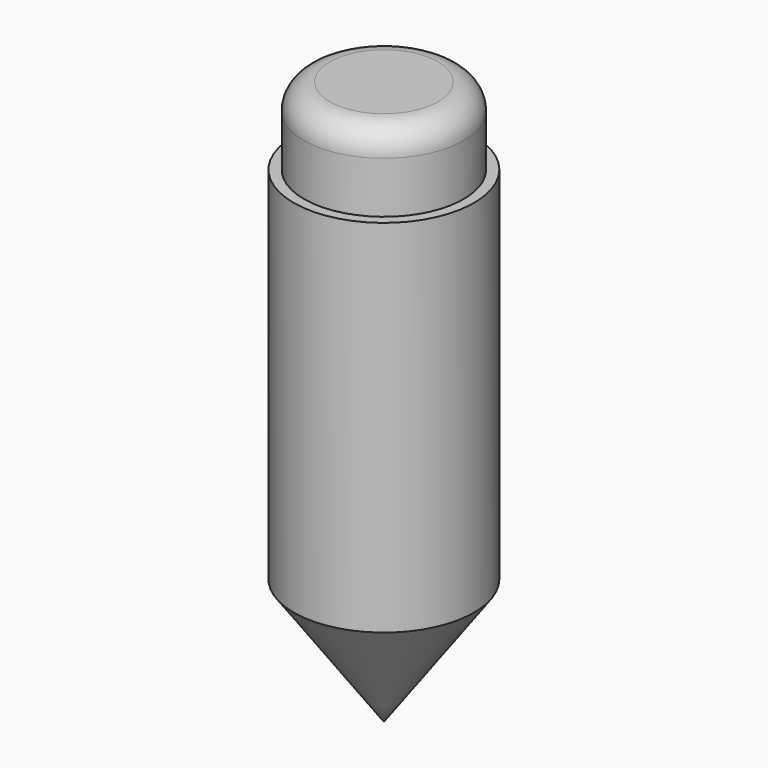
from build123d import *

# Parameters (mm, degrees)
F0_W = 19.685
F0_H = 19.05
F2_R = 6.35


with BuildPart() as f1:
    # F0 (on Front) → F1 (revolve)
    with BuildSketch(Plane.XZ):
        Polygon((3.1867721118, 33.2802927613), (3.1867721118, -55.6197072387), (25.4117721118, -55.6197072387), (25.4117721118, 33.2802927613), (5.7267721118, 33.2802927613), align=None)
        with Locations((15.5692721118, 42.8052927613)):
            Rectangle(F0_W, F0_H)
        Polygon((25.4117721118, -55.6197072387), (3.1867721118, -55.6197072387), (25.4117721118, -86.5657792834), align=None)
    revolve(axis=Axis((25.4117721118, 0, 1.1329754517), (0, 0, 1)))

    # F2
    f2_edges = [f1.edges().sort_by_distance(p)[0] for p in [
        (45.096772, 0, 52.330293),
    ]]
    fillet(f2_edges, radius=F2_R)


solid = f1.part
